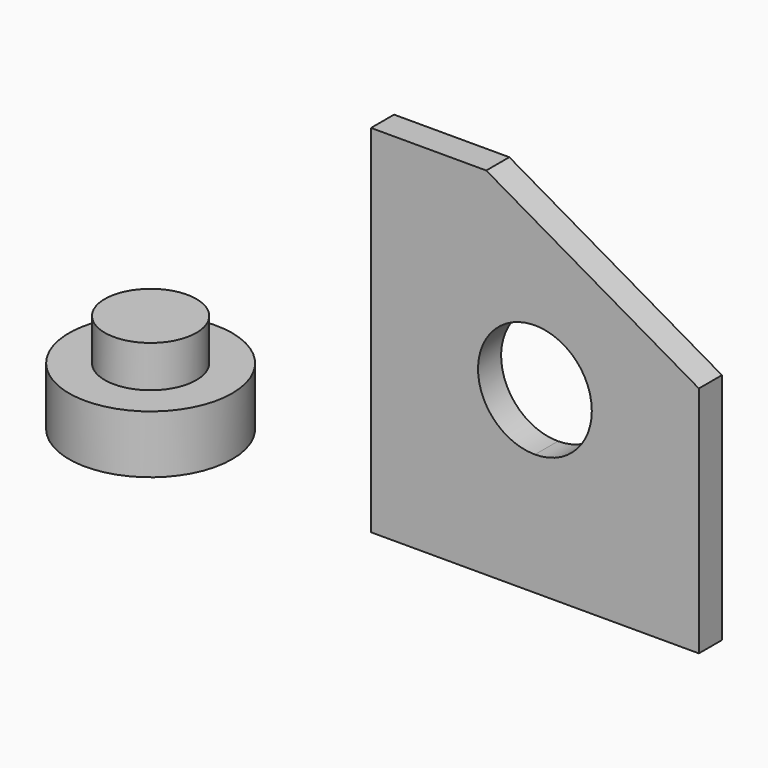
from build123d import *

# Parameters (mm, degrees)
F1_DEPTH = 25.4


with BuildPart() as f1:
    # F0 (on Front) → F1 (new body)
    with BuildSketch(Plane.XZ):
        with BuildLine():
            ThreePointArc((194.652651, 157.484895), (109.060513, 192.938319), (144.513937, 107.346182))
            ThreePointArc((144.513937, 107.346182), (179.967361, 122.031471), (194.652651, 157.484895))
        make_face()
        Polygon((0, 313.81694), (0, 0), (144.513937, 0), (289.027875, 0), (289.027875, 205.605406), (101.6, 313.81694), align=None)
        with BuildLine():
            ThreePointArc((194.652651, 157.484895), (179.967361, 122.031471), (144.513937, 107.346182))
            ThreePointArc((144.513937, 107.346182), (109.060513, 192.938319), (194.652651, 157.484895))
        make_face(mode=Mode.SUBTRACT)
    extrude(amount=F1_DEPTH)


with BuildPart() as f3:
    # F2 (on Front) → F3 (revolve)
    with BuildSketch(Plane.XZ):
        Polygon((-214.599207, 87.834574), (-214.599207, 0), (-142.640114, 0), (-142.640114, 51.120743), (-174.214005, 51.120743), (-174.214005, 87.834574), align=None)
    revolve(axis=Axis((-214.599207, 0, 43.917287), (0, 0, 1)))


solid = Compound([f1.part, f3.part])
